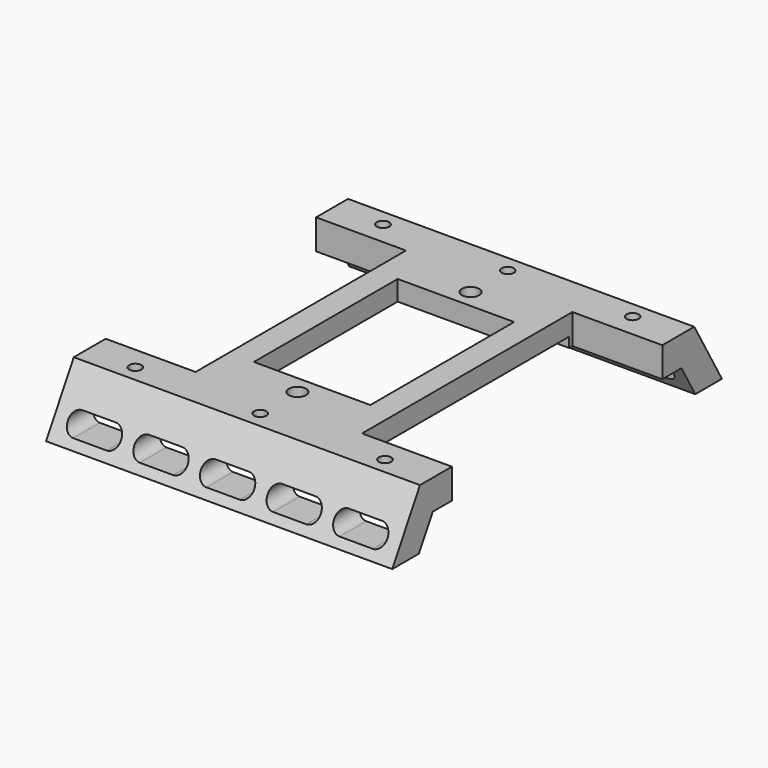
from build123d import *

# Parameters (mm, degrees)
SKETCH070_W      = 50
SKETCH070_H      = 76.5
EXTRUDE069_DEPTH = 3
SKETCH069_W      = 50
SKETCH069_H      = 80
SKETCH069_R      = 2.6
SKETCH069_W_2    = 35
SKETCH069_H_2    = 54
EXTRUDE068_DEPTH = 9
SKETCH061_R      = 1.85
EXTRUDE060_DEPTH = 15
SKETCH076_R      = 2.85
EXTRUDE075_DEPTH = 10
EXTRUDE059_DEPTH = 15
EXTRUDE058_DEPTH = 104
ARRAY018_COUNT   = 2


with BuildPart() as extrude069:
    # Sketch070 → Extrude069 (new body)
    with BuildSketch(Plane.XY):
        Rectangle(SKETCH070_W, SKETCH070_H)
    extrude(amount=EXTRUDE069_DEPTH)


with BuildPart() as extrude069_1:
    # Extrude069 placement: moved
    add(extrude069.part.moved(Location((0, 0, -9))))


with BuildPart() as cut040:
    # Sketch069 → Extrude068 (new body)
    with BuildSketch(Plane.XY):
        Rectangle(SKETCH069_W, SKETCH069_H)
        with Locations((0, 32.5)):
            Circle(SKETCH069_R, mode=Mode.SUBTRACT)
        with Locations((0, -32.5)):
            Circle(SKETCH069_R, mode=Mode.SUBTRACT)
        Rectangle(SKETCH069_W_2, SKETCH069_H_2, mode=Mode.SUBTRACT)
    extrude(amount=-EXTRUDE068_DEPTH)

    # Cut040: cut Extrude069
    add(extrude069_1.part, mode=Mode.SUBTRACT)


with BuildPart() as extrude060:
    # Sketch061 → Extrude060 (new body)
    with BuildSketch(Plane.XY):
        with Locations((-37.5, -7)):
            Circle(SKETCH061_R)
        with Locations((0, -7)):
            Circle(SKETCH061_R)
        with Locations((37.5, -7)):
            Circle(SKETCH061_R)
    extrude(amount=-EXTRUDE060_DEPTH)


with BuildPart() as fusion034004041012:
    # Sketch076 → Extrude075 (new body)
    with BuildSketch(Plane.XY):
        with Locations((-37.5, -7)):
            Circle(SKETCH076_R)
        with Locations((0, -7)):
            Circle(SKETCH076_R)
        with Locations((37.5, -7)):
            Circle(SKETCH076_R)
    extrude(amount=-EXTRUDE075_DEPTH)


with BuildPart() as fusion034004041012_1:
    # Extrude075 placement: moved
    add(fusion034004041012.part.moved(Location((0, 0, -5))))

    # Fusion034004041012: union Extrude060
    add(extrude060.part)


with BuildPart() as extrude059:
    # Sketch060 → Extrude059 (new body)
    with BuildSketch(Plane.XZ):
        with BuildLine():
            ThreePointArc((-25, -7.5), (-28, -10.5), (-25, -13.5))
            Line((-25, -13.5), (-15, -13.5))
            ThreePointArc((-15, -13.5), (-12, -10.5), (-15, -7.5))
            Line((-25, -7.5), (-15, -7.5))
        make_face()
        with BuildLine():
            ThreePointArc((-5, -7.5), (-8, -10.5), (-5, -13.5))
            Line((-5, -13.5), (5, -13.5))
            ThreePointArc((5, -13.5), (8, -10.5), (5, -7.5))
            Line((-5, -7.5), (5, -7.5))
        make_face()
        with BuildLine():
            ThreePointArc((15, -7.5), (12, -10.5), (15, -13.5))
            Line((15, -13.5), (25, -13.5))
            ThreePointArc((25, -13.5), (28, -10.5), (25, -7.5))
            Line((15, -7.5), (25, -7.5))
        make_face()
        with BuildLine():
            ThreePointArc((35, -7.5), (32, -10.5), (35, -13.5))
            Line((35, -13.5), (45, -13.5))
            ThreePointArc((45, -13.5), (48, -10.5), (45, -7.5))
            Line((35, -7.5), (45, -7.5))
        make_face()
        with BuildLine():
            ThreePointArc((-45, -7.5), (-48, -10.5), (-45, -13.5))
            Line((-45, -13.5), (-35, -13.5))
            ThreePointArc((-35, -13.5), (-32, -10.5), (-35, -7.5))
            Line((-45, -7.5), (-35, -7.5))
        make_face()
    extrude(amount=EXTRUDE059_DEPTH)


with BuildPart() as extrude059_1:
    # Extrude059 placement: moved
    add(extrude059.part.moved(Location((0, -7, -2))))


with BuildPart() as landinggearfusion030:
    # Sketch059 → Extrude058 (new body)
    with BuildSketch(Plane.YZ):
        Polygon((0, 0), (-12, 0), (-22.392305, -18), (-12.392305, -18), (-7.196152, -9), (0, -9), align=None)
    extrude(amount=EXTRUDE058_DEPTH)


with BuildPart() as landinggearfusion030_1:
    # Extrude058 placement: moved
    add(landinggearfusion030.part.moved(Location((-52, 0, 0))))

    # Cut033: cut Extrude059
    add(extrude059_1.part, mode=Mode.SUBTRACT)

    # Cut041: cut Fusion034004041012
    add(fusion034004041012_1.part, mode=Mode.SUBTRACT)


with BuildPart() as landinggearfusion030_2:
    # Cut041 placement: moved
    add(landinggearfusion030_1.part.moved(Location((0, -39.5, 0))))

    # Array018: LandingGearFusion030 ×2 about axis
    array018_axis = Axis((0, 0, 0), (0, 0, 1))


with BuildPart() as landinggearfusion030_3:
    add(landinggearfusion030_2.part)
    for i in range(1, ARRAY018_COUNT):
        add(landinggearfusion030_2.part.rotate(array018_axis, i * 360 / ARRAY018_COUNT))

    # Fusion030: union Cut040
    add(cut040.part)


with BuildPart() as landinggearfusion030_4:
    # Fusion030 placement: moved
    add(landinggearfusion030_3.part.moved(Location((0, 0, -70))))


solid = landinggearfusion030_4.part
